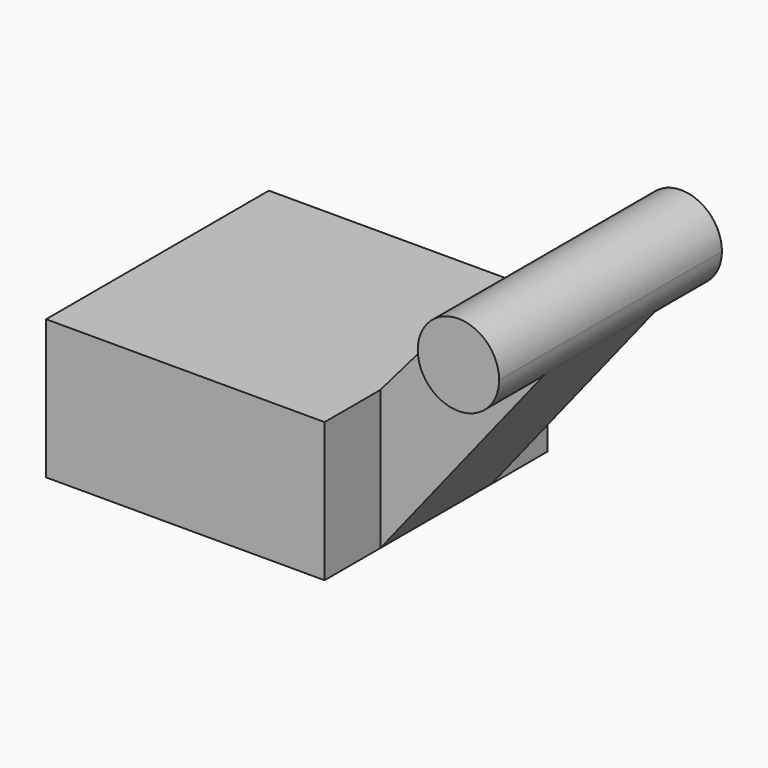
from build123d import *

# Parameters (mm, degrees)
F0_W     = 20
F0_H     = 10
F1_DEPTH = 10
F2_DEPTH = 5


with BuildPart() as f1:
    # F0 (on Front) → F1 (new body)
    with BuildSketch(Plane.XZ):
        with BuildLine():
            ThreePointArc((-2.221403, 18.644934), (-1.860462, 14.492448), (2.285223, 14.924558))
            ThreePointArc((2.285223, 14.924558), (2.758486, 15.781217), (2.922367, 16.746093))
            ThreePointArc((2.922367, 16.746093), (1.012046, 19.487624), (-2.221403, 18.644934))
        make_face()
        with Locations((-19.611036, 5)):
            Rectangle(F0_W, F0_H)
    extrude(amount=F1_DEPTH)



with BuildPart() as f2:
    # F0 (on Front) → F2 (new body)
    with BuildSketch(Plane.XZ):
        with BuildLine():
            Line((-9.611036, 10), (-9.611036, 0))
            Line((-9.611036, 0), (2.285223, 14.924558))
            ThreePointArc((2.285223, 14.924558), (-1.860462, 14.492448), (-2.221403, 18.644934))
            Line((-2.221403, 18.644934), (-9.611036, 10))
        make_face()
    extrude(amount=F2_DEPTH)


with BuildPart() as f1_1:
    add(f1.part)

    add(f2.part)  # F3 merges F2
    # F3: F1 across plane


with BuildPart() as f1_2:
    add(f1_1.part)
    add(f1_1.part.mirror(Plane.XZ))


solid = f1_2.part
